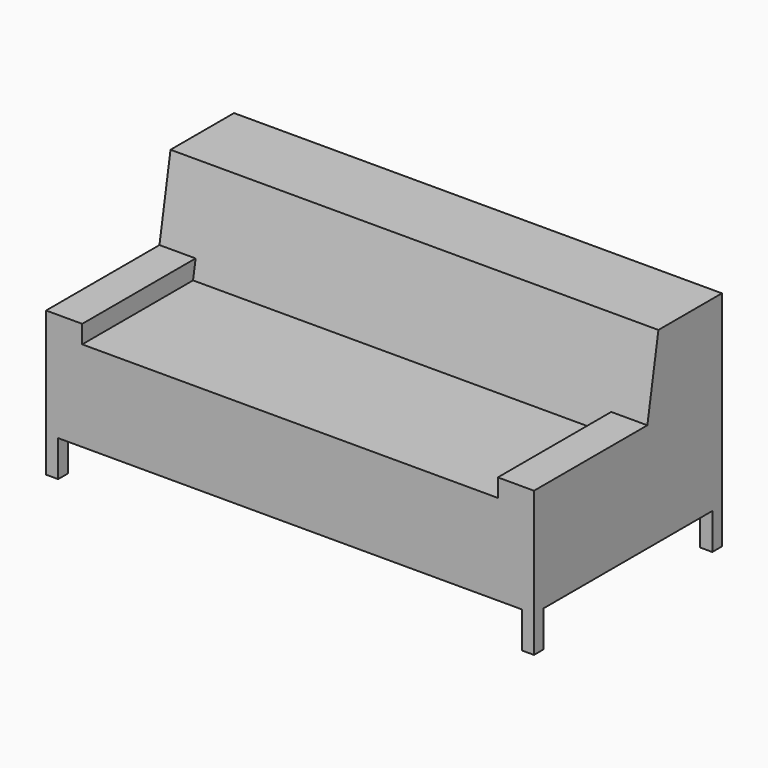
from build123d import *

# Parameters (mm, degrees)
F0_W     = 2057.4
F0_H     = 990.6
F1_DEPTH = 939.8
F3_DEPTH = 876.3
F5_DEPTH = 127000
F7_DEPTH = 152.4


with BuildPart() as f1:
    # F0 (on Top) → F1 (new body)
    with BuildSketch(Plane.XY):
        Rectangle(F0_W, F0_H)
    extrude(amount=F1_DEPTH)

    # F2 (on Right) → F3 (cut, symmetric)
    with BuildSketch(Plane.YZ):
        Polygon((-495.3, 939.8), (-495.3, 533.4), (88.9, 533.4), (160.5592849599, 939.8), align=None)
    extrude(amount=F3_DEPTH, both=True, mode=Mode.SUBTRACT)

    # F4 (on Right) → F5 (cut, symmetric)
    with BuildSketch(Plane.YZ):
        Polygon((-495.3, 939.8), (-495.3, 609.6), (102.33611593, 609.6), (160.5592849599, 939.8), align=None)
    extrude(amount=F5_DEPTH, both=True, mode=Mode.SUBTRACT)

    # F6 (on face) → F7 (cut)
    with BuildSketch(Plane(origin=(0, 0, 0), x_dir=(1, 0, 0), z_dir=(0, 0, -1))):
        Polygon((977.9, 495.3), (-977.9, 495.3), (-977.9, 444.5), (-1028.7, 444.5), (-1028.7, -444.5), (-977.9, -444.5), (-977.9, -495.3), (977.9, -495.3), (977.9, -444.5), (1028.7, -444.5), (1028.7, 444.5), (977.9, 444.5), align=None)
    extrude(amount=-F7_DEPTH, mode=Mode.SUBTRACT)


solid = f1.part
